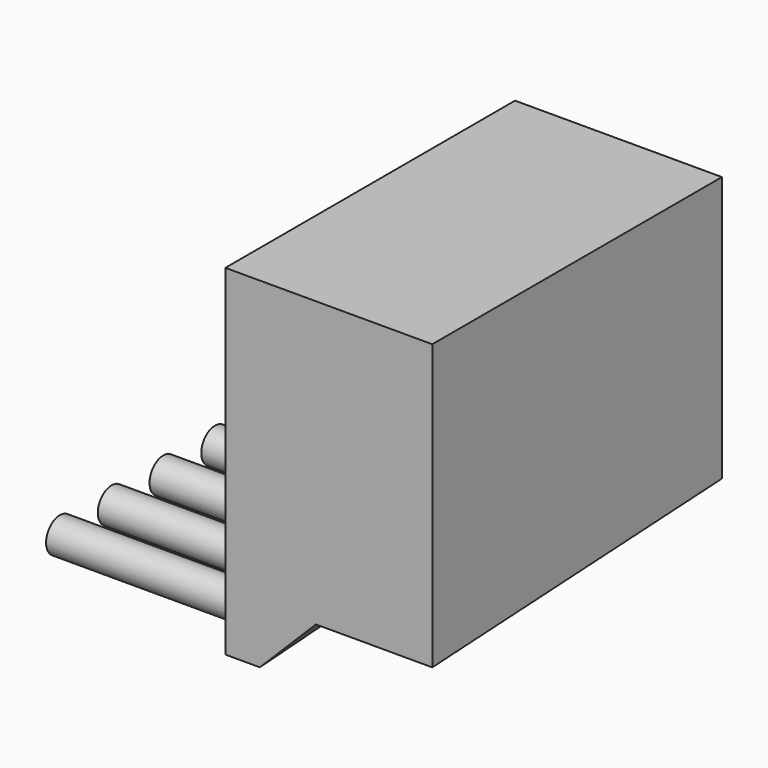
from build123d import *

# Parameters (mm, degrees)
F0_W     = 2438.4
F0_H     = 4267.2
F1_DEPTH = 4013.2
F3_DEPTH = 4267.2
F3_TAPER = -3
F5_DEPTH = 2438.4


with BuildPart() as f1:
    # F0 (on Top) → F1 (new body)
    with BuildSketch(Plane.XY):
        with Locations((1219.2, 2133.6)):
            Rectangle(F0_W, F0_H)
    extrude(amount=F1_DEPTH)

    # F2 (on face) → F3 (cut)
    with BuildSketch(Plane.XZ):
        Polygon((406.4, 0), (2438.4, 0), (2438.4, 660.4), (1066.6307210922, 660.4), align=None)
    extrude(amount=-F3_DEPTH, taper=F3_TAPER, mode=Mode.SUBTRACT)

    # F4 (on face) → F5 (join)
    with BuildSketch(Plane(origin=(0, 0, 0), x_dir=(0, -1, 0), z_dir=(-1, 0, 0))):
        with BuildLine():
            ThreePointArc((-2692.4, 203.2), (-3039.2840979371, 346.8840979371), (-2895.6, 0))
            ThreePointArc((-2895.6, 0), (-2751.9159020629, 59.5159020629), (-2692.4, 203.2))
        make_face()
        with BuildLine():
            ThreePointArc((-1930.4, 203.2), (-2277.2840979371, 346.8840979371), (-2133.6, 0))
            ThreePointArc((-2133.6, 0), (-1989.9159020629, 59.5159020629), (-1930.4, 203.2))
        make_face()
        with BuildLine():
            ThreePointArc((-1168.4, 203.2), (-1515.2840979371, 346.8840979371), (-1371.6, 0))
            ThreePointArc((-1371.6, 0), (-1227.9159020629, 59.5159020629), (-1168.4, 203.2))
        make_face()
        with BuildLine():
            ThreePointArc((-406.4, 203.2), (-753.2840979371, 346.8840979371), (-609.6, 0))
            ThreePointArc((-609.6, 0), (-465.9159020629, 59.5159020629), (-406.4, 203.2))
        make_face()
        with BuildLine():
            ThreePointArc((-3454.4, 203.2), (-3801.2840979371, 346.8840979371), (-3657.6, 0))
            ThreePointArc((-3657.6, 0), (-3513.9159020629, 59.5159020629), (-3454.4, 203.2))
        make_face()
    extrude(amount=F5_DEPTH)


solid = f1.part
